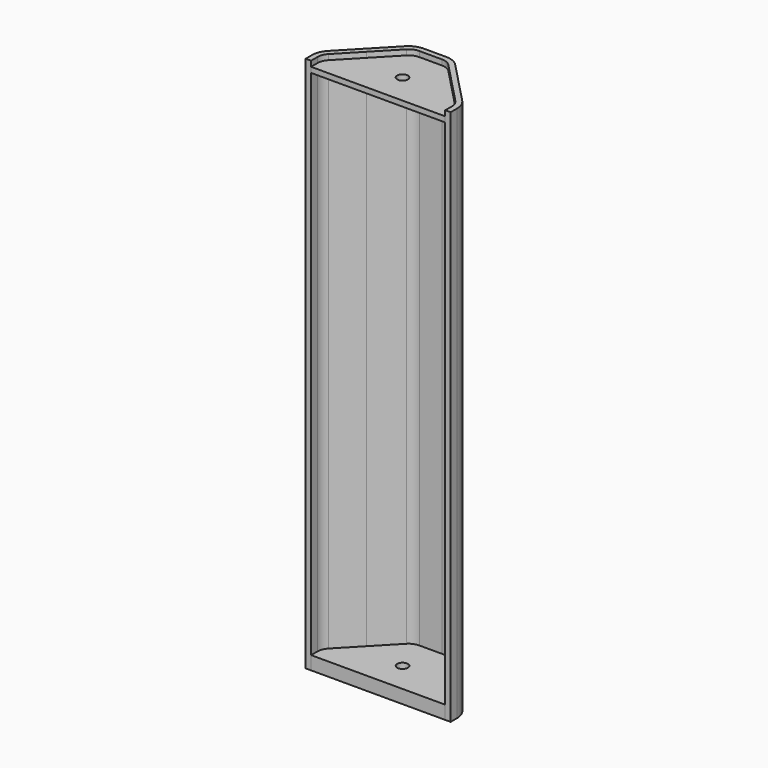
from build123d import *

# Parameters (mm, degrees)
F1_DEPTH  = 400
F0_R      = 4
F2_DEPTH  = 10
F3_START  = 382
F2_FACE_R = 4
F3_DEPTH  = 4


with BuildPart() as f1:
    # F0 (on Top) → F1 (new body)
    with BuildSketch(Plane.XY):
        with BuildLine():
            Line((-54, -22.7331889315), (-50, -22.7331889315))
            Line((-50, -22.7331889315), (-50, -16.7531133549))
            ThreePointArc((-50, -16.7531133549), (-49.2783785301, -13.0232753086), (-47.2176616296, -9.8317435049))
            Line((-47.2176616296, -9.8317435049), (-31.9070156646, 6.134324528))
            Line((-31.9070156646, 6.134324528), (-15.6802839182, 23.055694378))
            ThreePointArc((-15.6802839182, 23.055694378), (-12.3860328904, 25.3325226804), (-8.4626222886, 26.134324528))
            Line((-8.4626222886, 26.134324528), (8.4626222886, 26.134324528))
            ThreePointArc((8.4626222886, 26.134324528), (12.3860328904, 25.3325226804), (15.6802839182, 23.055694378))
            Line((15.6802839182, 23.055694378), (31.9070156646, 6.134324528))
            Line((31.9070156646, 6.134324528), (47.2176616296, -9.8317435049))
            ThreePointArc((47.2176616296, -9.8317435049), (49.2783785301, -13.0232753086), (50, -16.7531133549))
            Line((50, -16.7531133549), (50, -22.7331889315))
            Line((50, -22.7331889315), (54, -22.7331889315))
            Line((54, -22.7331889315), (54, -16.7531133549))
            ThreePointArc((54, -16.7531133549), (52.9897299422, -11.5313400901), (50.1047262815, -7.0631955649))
            Line((50.1047262815, -7.0631955649), (18.5673485701, 25.824242318))
            ThreePointArc((18.5673485701, 25.824242318), (13.9553971311, 29.0118019413), (8.4626222886, 30.134324528))
            Line((8.4626222886, 30.134324528), (-8.4626222886, 30.134324528))
            ThreePointArc((-8.4626222886, 30.134324528), (-13.9553971311, 29.0118019413), (-18.5673485701, 25.824242318))
            Line((-18.5673485701, 25.824242318), (-50.1047262815, -7.0631955649))
            ThreePointArc((-50.1047262815, -7.0631955649), (-52.9897299422, -11.5313400901), (-54, -16.7531133549))
            Line((-54, -16.7531133549), (-54, -22.7331889315))
        make_face()
    extrude(amount=F1_DEPTH)


with BuildPart() as f2:
    # F0 (on Top) → F2 (new body)
    with BuildSketch(Plane.XY):
        with BuildLine():
            Line((-50, -16.7531133549), (-50, -22.7331889315))
            Line((-50, -22.7331889315), (50, -22.7331889315))
            Line((50, -22.7331889315), (50, -16.7531133549))
            ThreePointArc((50, -16.7531133549), (49.2783785301, -13.0232753086), (47.2176616296, -9.8317435049))
            Line((47.2176616296, -9.8317435049), (31.9070156646, 6.134324528))
            Line((31.9070156646, 6.134324528), (-31.9070156646, 6.134324528))
            Line((-31.9070156646, 6.134324528), (-47.2176616296, -9.8317435049))
            ThreePointArc((-47.2176616296, -9.8317435049), (-49.2783785301, -13.0232753086), (-50, -16.7531133549))
        make_face()
        Circle(F0_R, mode=Mode.SUBTRACT)
        with BuildLine():
            Line((-15.6802839182, 23.055694378), (-31.9070156646, 6.134324528))
            Line((-31.9070156646, 6.134324528), (31.9070156646, 6.134324528))
            Line((31.9070156646, 6.134324528), (15.6802839182, 23.055694378))
            ThreePointArc((15.6802839182, 23.055694378), (12.3860328904, 25.3325226804), (8.4626222886, 26.134324528))
            Line((8.4626222886, 26.134324528), (-8.4626222886, 26.134324528))
            ThreePointArc((-8.4626222886, 26.134324528), (-12.3860328904, 25.3325226804), (-15.6802839182, 23.055694378))
        make_face()
    extrude(amount=F2_DEPTH)


with BuildPart() as f3:
    # F2_face (on face) → F3 (new body)
    with BuildSketch(Plane(origin=(0, -3.2105105513, 10), x_dir=(1, 0, 0), z_dir=(0, 0, 1)).offset(F3_START)):
        with BuildLine():
            ThreePointArc((-47.2176616296, -6.6212329536), (-49.2783785301, -9.8127647572), (-50, -13.5426028036))
            Line((-50, -13.5426028036), (-50, -19.5226783801))
            Line((-50, -19.5226783801), (50, -19.5226783801))
            Line((50, -19.5226783801), (50, -13.5426028036))
            ThreePointArc((50, -13.5426028036), (49.2783785301, -9.8127647572), (47.2176616296, -6.6212329536))
            Line((47.2176616296, -6.6212329536), (15.6802839182, 26.2662049294))
            ThreePointArc((15.6802839182, 26.2662049294), (12.3860328904, 28.5430332317), (8.4626222886, 29.3448350794))
            Line((8.4626222886, 29.3448350794), (-8.4626222886, 29.3448350794))
            ThreePointArc((-8.4626222886, 29.3448350794), (-12.3860328904, 28.5430332317), (-15.6802839182, 26.2662049294))
            Line((-15.6802839182, 26.2662049294), (-47.2176616296, -6.6212329536))
        make_face()
        with Locations((0, 3.2105105513)):
            Circle(F2_FACE_R, mode=Mode.SUBTRACT)
    extrude(amount=F3_DEPTH)


solid = Compound([f1.part, f2.part, f3.part])
